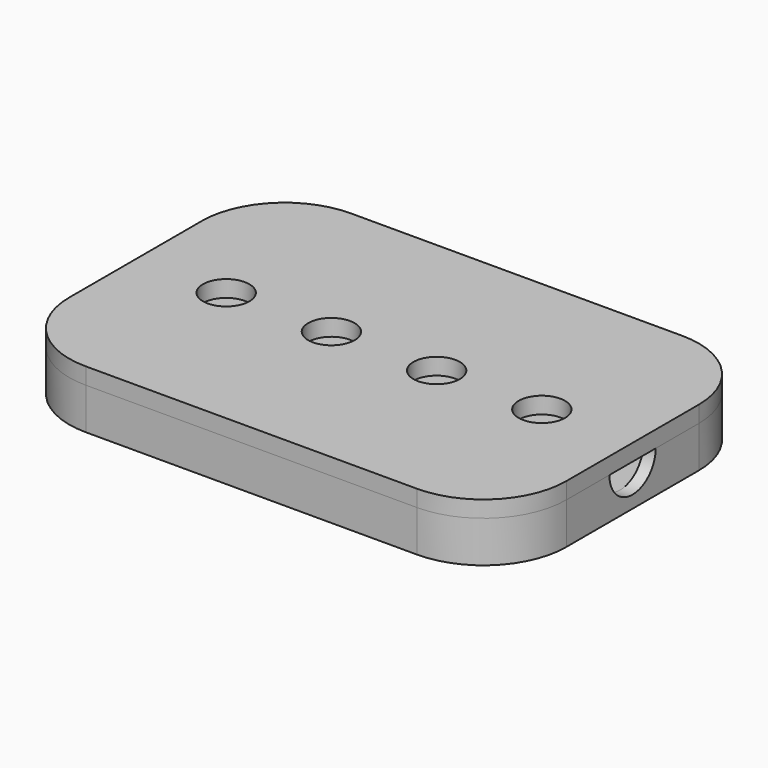
from build123d import *

# Parameters (mm, degrees)
F0_W      = 60
F0_H      = 40
F0_R      = 2.8
F1_DEPTH  = 2
F2_R      = 10
F3_R      = 10
F4_R      = 10
F5_R      = 10
F6_W      = 60
F6_H      = 40
F7_DEPTH  = 5
F8_R      = 10
F9_T      = -1.5
F11_D     = 7
F11_DEPTH = 16.5
F11_TIP   = 2.1030121666


with BuildPart() as f1:
    # F0 (on Top) → F1 (new body)
    with BuildSketch(Plane.XY):
        Rectangle(F0_W, F0_H)
        with Locations((-19.05, 0)):
            Circle(F0_R, mode=Mode.SUBTRACT)
        with Locations((-6.35, 0)):
            Circle(F0_R, mode=Mode.SUBTRACT)
        with Locations((6.35, 0)):
            Circle(F0_R, mode=Mode.SUBTRACT)
        with Locations((19.05, 0)):
            Circle(F0_R, mode=Mode.SUBTRACT)
    extrude(amount=F1_DEPTH)

    # F2
    f2_edges = [f1.edges().sort_by_distance(p)[0] for p in [
        (-30, 20, 1),
    ]]
    fillet(f2_edges, radius=F2_R)

    # F3
    f3_edges = [f1.edges().sort_by_distance(p)[0] for p in [
        (-30, -20, 1),
    ]]
    fillet(f3_edges, radius=F3_R)

    # F4
    f4_edges = [f1.edges().sort_by_distance(p)[0] for p in [
        (30, -20, 1),
    ]]
    fillet(f4_edges, radius=F4_R)

    # F5
    f5_edges = [f1.edges().sort_by_distance(p)[0] for p in [
        (30, 20, 1),
    ]]
    fillet(f5_edges, radius=F5_R)


with BuildPart() as f7:
    # F6 (on Top) → F7 (new body)
    with BuildSketch(Plane.XY):
        Rectangle(F6_W, F6_H)
    extrude(amount=-F7_DEPTH)

    # F8
    f8_edges = [f7.edges().sort_by_distance(p)[0] for p in [
        (-30, -20, -2.5),
        (30, -20, -2.5),
        (30, 20, -2.5),
        (-30, 20, -2.5),
    ]]
    fillet(f8_edges, radius=F8_R)

    # F9
    f9_openings = [f7.faces().sort_by_distance(p)[0] for p in [
        (0, 0, 0),
    ]]
    offset(amount=F9_T, openings=f9_openings)

    # F11
    with Locations(Plane.YZ.offset(30)):
        with Locations((0, 0)):
            Hole(F11_D / 2, depth=F11_DEPTH)
            with Locations((0, 0, -(F11_DEPTH + F11_TIP / 2))):  # 118° drill point
                Cone(0, F11_D / 2, F11_TIP, mode=Mode.SUBTRACT)


solid = Compound([f1.part, f7.part])
